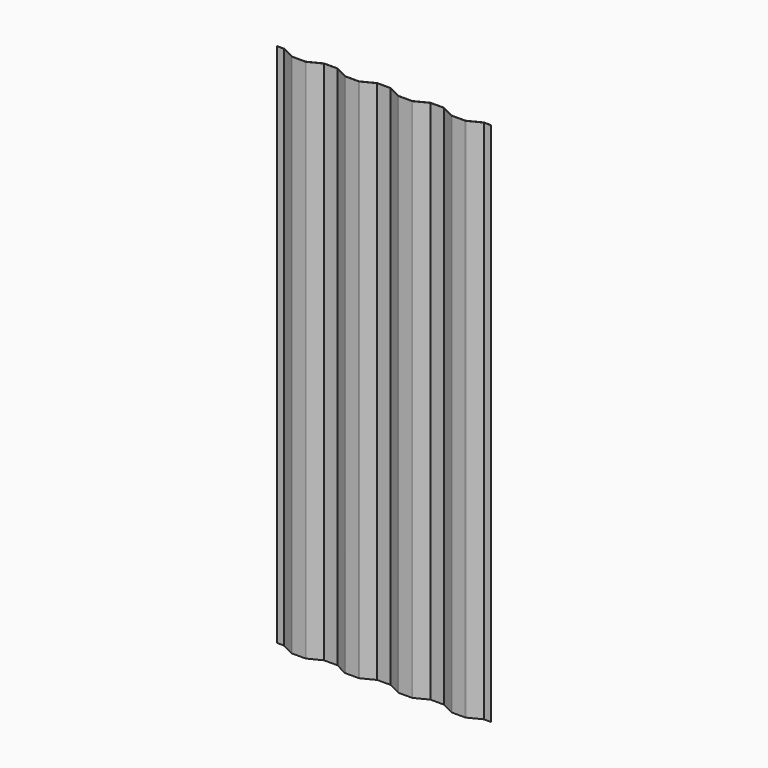
from build123d import *

# Parameters (mm, degrees)
F1_DEPTH = 2742


with BuildPart() as f1:
    # F0 (on Top) → F1 (new body)
    with BuildSketch(Plane.XY):
        with BuildLine():
            ThreePointArc((103.213446, 15.932448), (104.661294, 15.401879), (106.192738, 15.221745))
            Line((106.192738, 15.221745), (175.807262, 15.221745))
            ThreePointArc((175.807262, 15.221745), (177.338706, 15.401879), (178.786554, 15.932448))
            Line((178.786554, 15.932448), (245.381676, 49.621745))
            Line((245.381676, 49.621745), (314.618324, 49.621745))
            Line((314.618324, 49.621745), (381.213446, 15.932448))
            ThreePointArc((381.213446, 15.932448), (382.661294, 15.401879), (384.192738, 15.221745))
            Line((384.192738, 15.221745), (453.807262, 15.221745))
            ThreePointArc((453.807262, 15.221745), (455.338706, 15.401879), (456.786554, 15.932448))
            Line((456.786554, 15.932448), (523.381676, 49.621745))
            Line((523.381676, 49.621745), (592.618324, 49.621745))
            Line((592.618324, 49.621745), (659.213446, 15.932448))
            ThreePointArc((659.213446, 15.932448), (660.661294, 15.401879), (662.192738, 15.221745))
            Line((662.192738, 15.221745), (731.807262, 15.221745))
            ThreePointArc((731.807262, 15.221745), (733.338706, 15.401879), (734.786554, 15.932448))
            Line((734.786554, 15.932448), (801.381676, 49.621745))
            Line((801.381676, 49.621745), (870.618324, 49.621745))
            Line((870.618324, 49.621745), (937.213446, 15.932448))
            ThreePointArc((937.213446, 15.932448), (938.661294, 15.401879), (940.192738, 15.221745))
            Line((940.192738, 15.221745), (1009.807262, 15.221745))
            ThreePointArc((1009.807262, 15.221745), (1011.338706, 15.401879), (1012.786554, 15.932448))
            Line((1012.786554, 15.932448), (1079.381676, 49.621745))
            Line((1079.381676, 49.621745), (1116, 49.621745))
            Line((1116, 49.621745), (1116, 51.221745))
            Line((1116, 51.221745), (1080.192738, 51.221745))
            ThreePointArc((1080.192738, 51.221745), (1079.032553, 51.08528), (1077.935699, 50.683334))
            Line((1077.935699, 50.683334), (1012.064301, 17.360156))
            ThreePointArc((1012.064301, 17.360156), (1010.967447, 16.95821), (1009.807262, 16.821745))
            Line((1009.807262, 16.821745), (940.192738, 16.821745))
            ThreePointArc((940.192738, 16.821745), (939.032553, 16.95821), (937.935699, 17.360156))
            Line((937.935699, 17.360156), (872.064301, 50.683334))
            ThreePointArc((872.064301, 50.683334), (870.967447, 51.08528), (869.807262, 51.221745))
            Line((869.807262, 51.221745), (802.192738, 51.221745))
            ThreePointArc((802.192738, 51.221745), (801.032553, 51.08528), (799.935699, 50.683334))
            Line((799.935699, 50.683334), (734.064301, 17.360156))
            ThreePointArc((734.064301, 17.360156), (732.967447, 16.95821), (731.807262, 16.821745))
            Line((731.807262, 16.821745), (662.192738, 16.821745))
            ThreePointArc((662.192738, 16.821745), (661.032553, 16.95821), (659.935699, 17.360156))
            Line((659.935699, 17.360156), (594.064301, 50.683334))
            ThreePointArc((594.064301, 50.683334), (592.967447, 51.08528), (591.807262, 51.221745))
            Line((591.807262, 51.221745), (524.192738, 51.221745))
            ThreePointArc((524.192738, 51.221745), (523.032553, 51.08528), (521.935699, 50.683334))
            Line((521.935699, 50.683334), (456.064301, 17.360156))
            ThreePointArc((456.064301, 17.360156), (454.967447, 16.95821), (453.807262, 16.821745))
            Line((453.807262, 16.821745), (384.192738, 16.821745))
            ThreePointArc((384.192738, 16.821745), (383.032553, 16.95821), (381.935699, 17.360156))
            Line((381.935699, 17.360156), (316.064301, 50.683334))
            ThreePointArc((316.064301, 50.683334), (314.967447, 51.08528), (313.807262, 51.221745))
            Line((313.807262, 51.221745), (246.192738, 51.221745))
            ThreePointArc((246.192738, 51.221745), (245.032553, 51.08528), (243.935699, 50.683334))
            Line((243.935699, 50.683334), (178.064301, 17.360156))
            ThreePointArc((178.064301, 17.360156), (176.967447, 16.95821), (175.807262, 16.821745))
            Line((175.807262, 16.821745), (106.192738, 16.821745))
            ThreePointArc((106.192738, 16.821745), (105.032553, 16.95821), (103.935699, 17.360156))
            Line((103.935699, 17.360156), (38.064301, 50.683334))
            ThreePointArc((38.064301, 50.683334), (36.967447, 51.08528), (35.807262, 51.221745))
            Line((35.807262, 51.221745), (0, 51.221745))
            Line((0, 51.221745), (0, 49.621745))
            Line((0, 49.621745), (36.618324, 49.621745))
            Line((36.618324, 49.621745), (103.213446, 15.932448))
        make_face()
    extrude(amount=F1_DEPTH)


solid = f1.part
